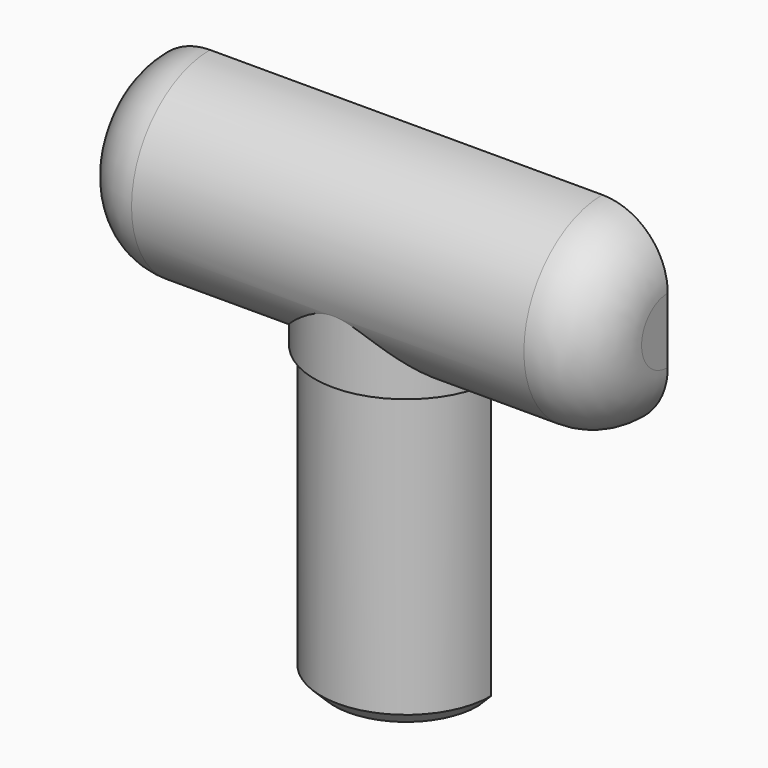
from build123d import *

# Parameters (mm, degrees)
CYLINDER_R        = 13
CYLINDER_DEPTH    = 45
CYLINDER001_R     = 14
CYLINDER001_DEPTH = 10
CYLINDER002_R     = 15
CYLINDER002_DEPTH = 80
CHAMFER_SIZE      = 2
FILLET_R          = 10
BOX_W             = 80
BOX_H             = 80
BOX_DEPTH         = 15


with BuildPart() as part:
    # Cylinder → Cylinder (join)
    with BuildSketch(Plane.XY):
        Circle(CYLINDER_R)
    extrude(amount=CYLINDER_DEPTH)

    # Cylinder001 → Cylinder001 (join)
    with BuildSketch(Plane.XY.offset(45)):
        Circle(CYLINDER001_R)
    extrude(amount=CYLINDER001_DEPTH)

    # Cylinder002 → Cylinder002 (join)
    with BuildSketch(Plane(origin=(-40, 0, 60), x_dir=(0, 1, 0), z_dir=(1, 0, 0))):
        Circle(CYLINDER002_R)
    extrude(amount=CYLINDER002_DEPTH)

    # Chamfer
    chamfer_edges = [part.edges().sort_by_distance(p)[0] for p in [
        (-13, 0, 0),
    ]]
    chamfer(chamfer_edges, length=CHAMFER_SIZE)

    # Fillet
    fillet_edges = [part.edges().sort_by_distance(p)[0] for p in [
        (40, -15, 60),
        (-40, -15, 60),
    ]]
    fillet(fillet_edges, radius=FILLET_R)

    # Box → Box (cut)
    with BuildSketch(Plane(origin=(-40, 15, 0), x_dir=(1, 0, 0), z_dir=(0, -1, 0))):
        with Locations((40, 40)):
            Rectangle(BOX_W, BOX_H)
    extrude(amount=BOX_DEPTH, mode=Mode.SUBTRACT)


solid = part.part
